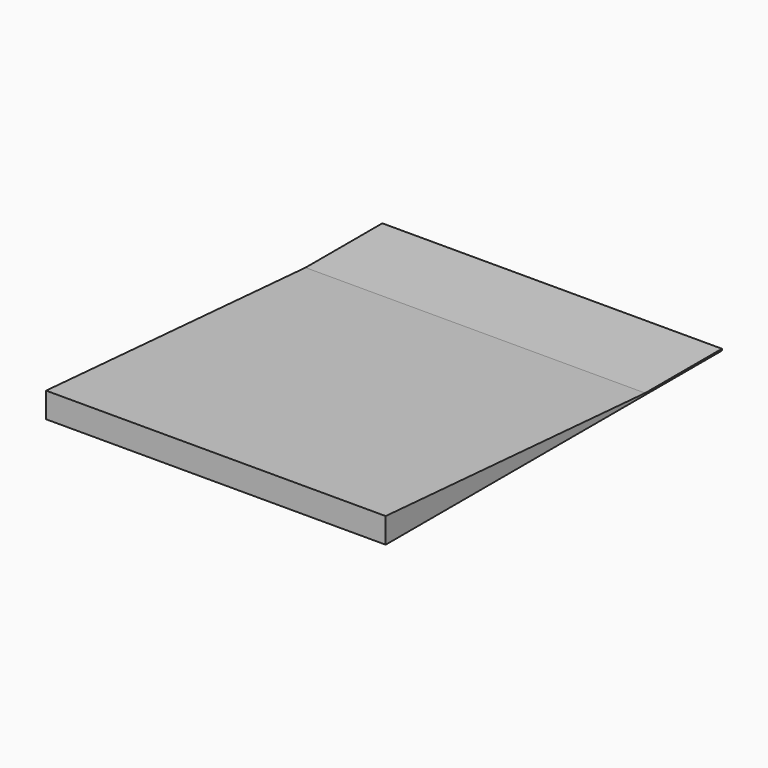
from build123d import *

# Parameters (mm, degrees)
F0_W     = 5130.8
F0_H     = 6350
F1_DEPTH = 25.4
F3_DEPTH = 5130.8


with BuildPart() as f1:
    # F0 (on Top) → F1 (new body)
    with BuildSketch(Plane.XY):
        with Locations((-2565.4, -3175)):
            Rectangle(F0_W, F0_H)
    extrude(amount=F1_DEPTH)

    # F2 (on face) → F3 (join)
    with BuildSketch(Plane(origin=(-5130.8, 0, 0), x_dir=(0, -1, 0), z_dir=(-1, 0, 0))):
        Polygon((1449.794888, 25.4), (6350, 25.4), (6350, 381), align=None)
    extrude(amount=-F3_DEPTH)


solid = f1.part
